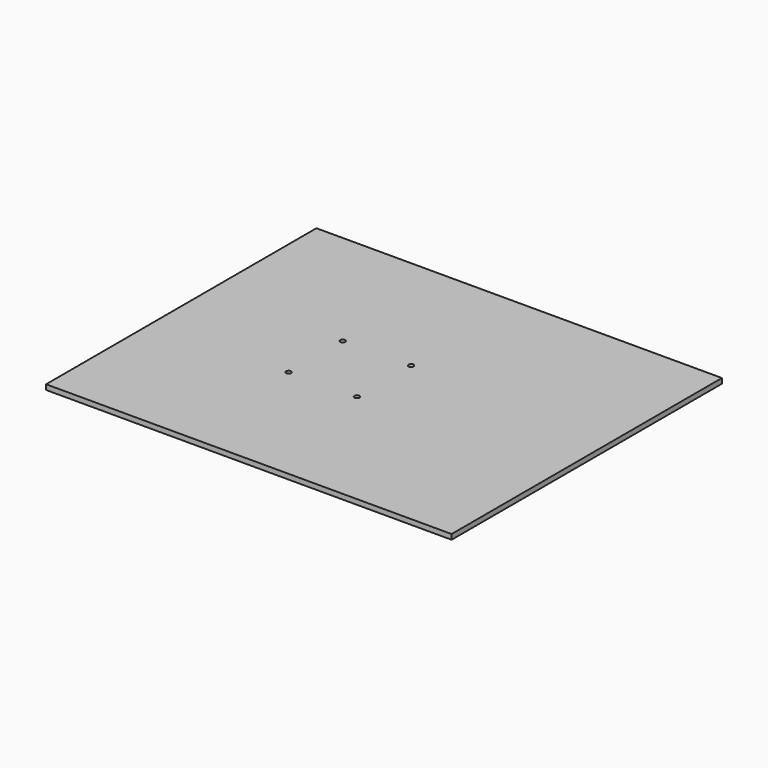
from build123d import *

# Parameters (mm, degrees)
F0_W     = 200
F0_H     = 200
F0_R     = 1.5
F0_W_2   = 40
F1_DEPTH = 3


with BuildPart() as f1:
    # F0 (on Top) → F1 (new body)
    with BuildSketch(Plane.XY):
        Rectangle(F0_W, F0_H)
        with Locations((-20, -20.579408)):
            Circle(F0_R, mode=Mode.SUBTRACT)
        with Locations((19.995803, -20)):
            Circle(F0_R, mode=Mode.SUBTRACT)
        with Locations((-19.995803, 19.420592)):
            Circle(F0_R, mode=Mode.SUBTRACT)
        with Locations((20, 20)):
            Circle(F0_R, mode=Mode.SUBTRACT)
        with Locations((120, 0)):
            Rectangle(F0_W_2, F0_H)
    extrude(amount=F1_DEPTH)


solid = f1.part
